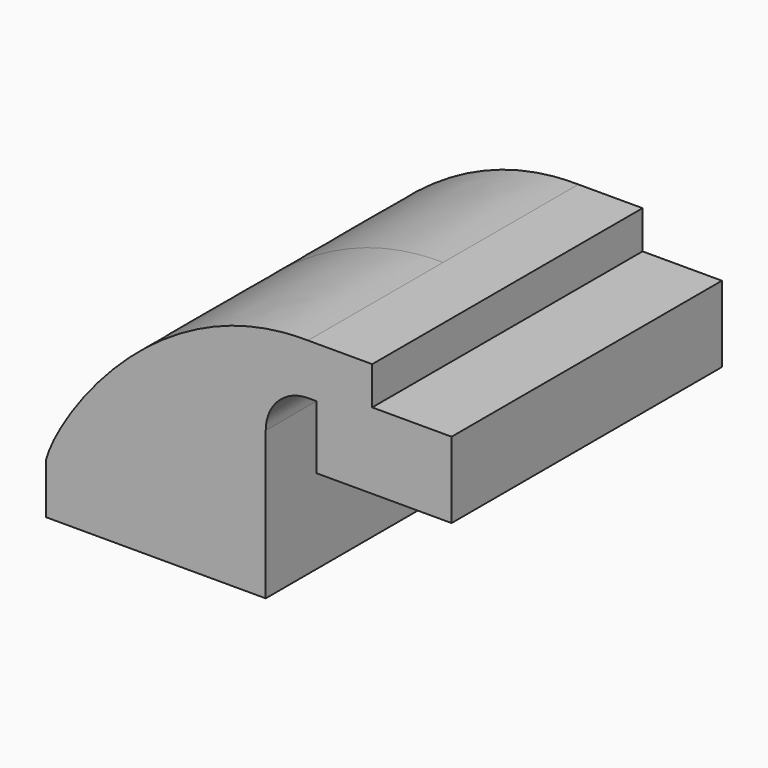
from build123d import *

# Parameters (mm, degrees)
F0_W     = 20.9652720133
F0_H     = 4.7498
F1_DEPTH = 63.5


with BuildPart() as f1:
    # F0 (on Front) → F1 (new body, symmetric)
    with BuildSketch(Plane.XZ):
        with BuildLine():
            add(Edge.make_bspline(
                [(-41.275, 9.525), (-37.169303745, 25.7526282221), (0, 81.8980410695), (57.15, 80.9752)],
                knots=[0, 0, 0, 0, 121.6248811101, 121.6248811101, 121.6248811101, 121.6248811101], degree=3))
            Line((-41.275, 9.525), (22.225, 9.525))
            Line((22.225, 9.525), (22.225, 46.0502))
            ThreePointArc((22.225, 46.0502), (32.4542956671, 70.7459043329), (57.15, 80.9752))
        make_face()
        Polygon((22.225, 9.525), (-41.275, 9.525), (-41.275, -9.525), (41.275, -9.525), (41.275, 9.525), align=None)
        with BuildLine():
            Line((22.225, 46.0502), (22.225, 9.525))
            Line((22.225, 9.525), (41.275, 9.525))
            Line((41.275, 9.525), (41.275, 46.0502))
            ThreePointArc((41.275, 46.0502), (45.9246798487, 57.2755201513), (57.15, 61.9252))
            Line((57.15, 61.9252), (60.325, 61.9252))
            Line((60.325, 61.9252), (60.325, 66.675))
            Line((60.325, 66.675), (81.2902720133, 66.675))
            Line((81.2902720133, 66.675), (81.2902720133, 80.9752))
            Line((81.2902720133, 80.9752), (57.15, 80.9752))
            ThreePointArc((57.15, 80.9752), (32.4542956671, 70.7459043329), (22.225, 46.0502))
        make_face()
        with Locations((70.8076360066, 64.3001)):
            Rectangle(F0_W, F0_H)
        Polygon((111.125, 66.675), (81.2902720133, 66.675), (81.2902720133, 61.9252), (60.325, 61.9252), (60.325, 38.1), (111.125, 38.1), align=None)
    extrude(amount=F1_DEPTH, both=True)


solid = f1.part
